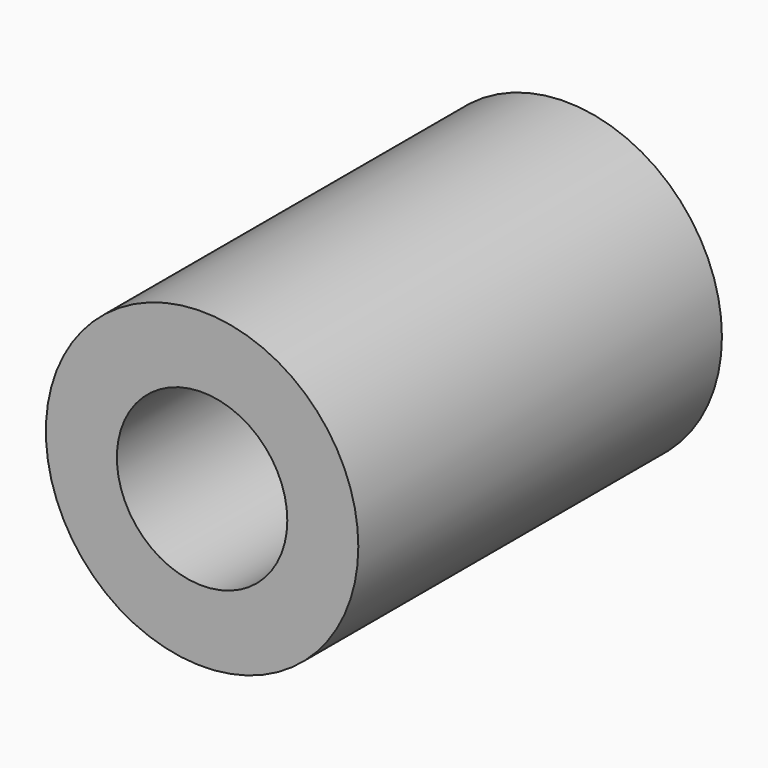
from build123d import *

# Parameters (mm, degrees)
LM12UU_0_INT_R          = 6
LM12UU_0_INT_DEPTH      = 34
LM12UU_0_INT_ROLL_ANGLE = -90
LM12UU_0_EXT_R          = 11
LM12UU_0_EXT_DEPTH      = 32
LM12UU_0_EXT_ROLL_ANGLE = -90


with BuildPart() as lm12uu_0_int:
    # lm12uu_0_int → lm12uu_0_int (new body)
    with BuildSketch(Plane.XY):
        Circle(LM12UU_0_INT_R)
    extrude(amount=LM12UU_0_INT_DEPTH)


with BuildPart() as lm12uu_0_int_1:
    # lm12uu_0_int roll: moved
    add(lm12uu_0_int.part.rotate(Axis((0, 0, 0), (1, 0, 0)), LM12UU_0_INT_ROLL_ANGLE))


with BuildPart() as lm12uu_0_int_2:
    # lm12uu_0_int placement: moved
    add(lm12uu_0_int_1.part.moved(Location((0, -82.2, 0))))


with BuildPart() as lm12uu_0_body:
    # lm12uu_0_ext → lm12uu_0_ext (new body)
    with BuildSketch(Plane.XY):
        Circle(LM12UU_0_EXT_R)
    extrude(amount=LM12UU_0_EXT_DEPTH)


with BuildPart() as lm12uu_0_body_1:
    # lm12uu_0_ext roll: moved
    add(lm12uu_0_body.part.rotate(Axis((0, 0, 0), (1, 0, 0)), LM12UU_0_EXT_ROLL_ANGLE))


with BuildPart() as lm12uu_0_body_2:
    # lm12uu_0_ext placement: moved
    add(lm12uu_0_body_1.part.moved(Location((0, -81.2, 0))))

    # lm12uu_0: cut lm12uu_0_int
    add(lm12uu_0_int_2.part, mode=Mode.SUBTRACT)


solid = lm12uu_0_body_2.part
